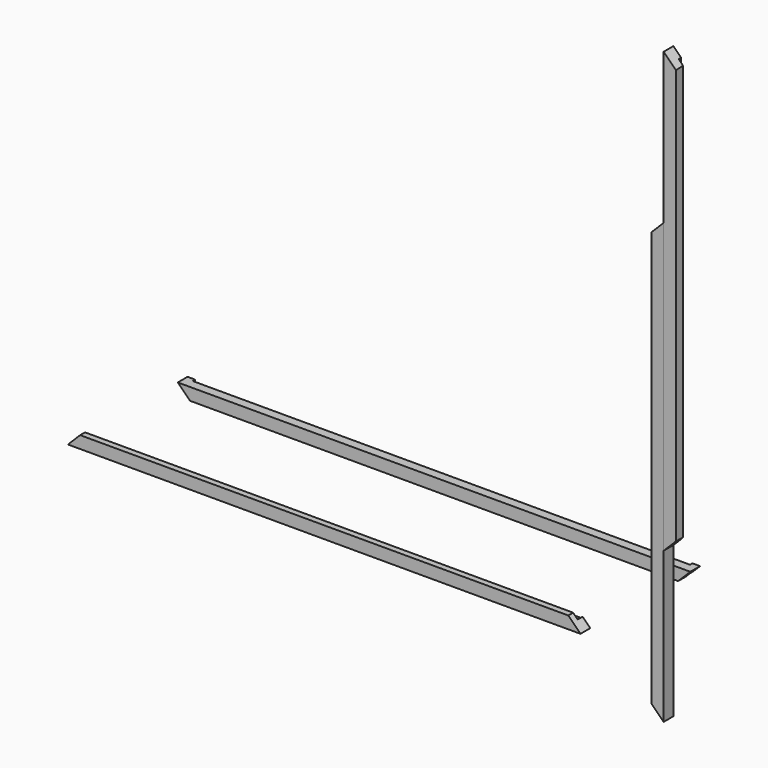
from build123d import *

# Parameters (mm, degrees)
F1_DEPTH  = 25.4
F4_DEPTH  = 25.4
F7_W      = 1035.05
F7_H      = 6.35
F8_DEPTH  = 809.2937105402
F10_DEPTH = 6.35
F11_ANGLE = 180
F15_ANGLE = 180
F16_W     = 1035.05
F16_H     = 12.7
F17_DEPTH = 12.7


with BuildPart() as f1:
    # F0 (on Front) → F1 (new body)
    with BuildSketch(Plane.XZ):
        Polygon((-13.6687295437, 51.7146185373), (-547.0687295437, 51.7146185373), (-521.6687295437, 26.3146185373), (-13.6687295437, 26.3146185373), align=None)
        Polygon((519.7312704563, 51.7146185373), (-13.6687295437, 51.7146185373), (-13.6687295437, 26.3146185373), (494.3312704563, 26.3146185373), align=None)
    extrude(amount=F1_DEPTH)


with BuildPart() as f2_1:
    # F2: instance of F1
    add(f1.part.mirror(Plane.XY))

    # F16 (on face) → F17 (cut)
    with BuildSketch(Plane.XY.offset(-26.3146185373)):
        with Locations((-13.6687295437, -6.35)):
            Rectangle(F16_W, F16_H)
    extrude(amount=-F17_DEPTH, mode=Mode.SUBTRACT)


with BuildPart() as f4:
    # F3 (on Front) → F4 (new body)
    with BuildSketch(Plane.XZ):
        Polygon((692.8033318043, 300.3780920029), (692.8033318043, 757.5780920029), (667.4033318043, 732.1780920029), (667.4033318043, 300.3780920029), align=None)
        Polygon((692.8033318043, -156.8219079971), (692.8033318043, 300.3780920029), (667.4033318043, 300.3780920029), (667.4033318043, -131.4219079971), align=None)
    extrude(amount=F4_DEPTH)


with BuildPart() as f5_1:
    # F5: instance of F4
    add(f4.part.mirror(Plane.XY))


with BuildPart() as f6_1:
    # F6: copy of F1
    add(f1.part.moved(Location((127, 127, 0))))

    # F7 (on face) → F8 (cut, through all)
    with BuildSketch(Plane.XY.offset(51.7146185373)):
        with Locations((113.3312704563, 123.825)):
            Rectangle(F7_W, F7_H)
    extrude(amount=-F8_DEPTH, mode=Mode.SUBTRACT)


with BuildPart() as f10_tool:
    # F9 (on face) → F10 (new body)
    with BuildSketch(Plane(origin=(0, 0, 0), x_dir=(-1, 0, 0), z_dir=(0, 1, 0))):
        Polygon((-667.4033318043, 732.1780920029), (-676.9283318043, 741.7030920029), (-676.9283318043, -140.9469079971), (-667.4033318043, -131.4219079971), align=None)
    extrude(amount=-F10_DEPTH)


with BuildPart() as f4_1:
    add(f4.part)

    # F10: cut by f10_tool
    add(f10_tool.part, mode=Mode.SUBTRACT)


with BuildPart() as f5_1_1:
    add(f5_1.part)

    # F10: cut by f10_tool
    add(f10_tool.part, mode=Mode.SUBTRACT)


with BuildPart() as f5_1_2:
    # F11: moved
    add(f5_1_1.part.rotate(Axis((692.8033318043, -12.7, 156.8219079971), (0, 1, 0)), F11_ANGLE))


with BuildPart() as f14_1:
    # F14: instance of F4
    add(f4_1.part.mirror(Plane.XY))


with BuildPart() as f14_1_1:
    # F15: moved
    add(f14_1.part.rotate(Axis((692.8033318043, -12.7, 156.8219079971), (0, 1, 0)), F15_ANGLE))


solid = Compound([f2_1.part, f6_1.part, f4_1.part, f14_1_1.part])
